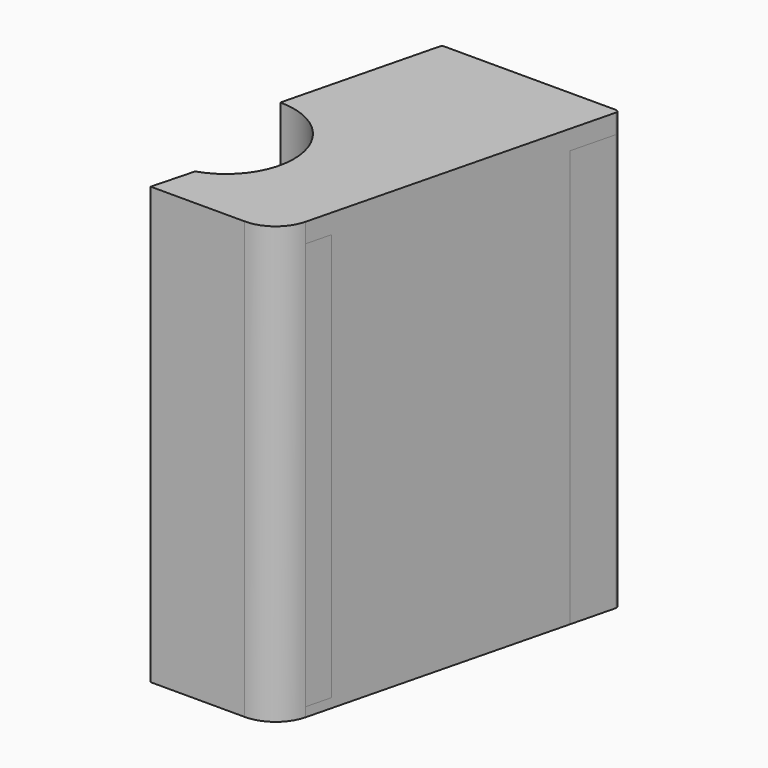
from build123d import *

# Parameters (mm, degrees)
F1_DEPTH  = 6.35
F2_DEPTH  = 133.35
F4_DEPTH  = 12.7
F6_DEPTH  = 12.7
F9_DEPTH  = 3.048
F10_DEPTH = 3.048


with BuildPart() as f1:
    # F0 (on Top) → F1 (new body)
    with BuildSketch(Plane.XY):
        with BuildLine():
            ThreePointArc((0, 22.225), (21.9553420771, 3.451605319), (6.8194533628, -21.152911876))
            Line((6.8194533628, -21.152911876), (3.2182324681, -34.8499524029))
            Line((3.2182324681, -34.8499524029), (16.4174194703, -34.8499524029))
            Line((16.4174194703, -34.8499524029), (33.9651857852, -34.8499524029))
            ThreePointArc((33.9651857852, -34.8499524029), (41.7335775109, -32.1969464806), (46.2563646294, -25.3463445283))
            Line((46.2563646294, -25.3463445283), (48.2839106629, -17.2361603944))
            Line((48.2839106629, -17.2361603944), (66.8572394912, 57.057154919))
            Line((66.8572394912, 57.057154919), (70.441746016, 71.3951810179))
            ThreePointArc((70.441746016, 71.3951810179), (70.2661403636, 72.2232722677), (69.5053644748, 72.5944764032))
            Line((69.5053644748, 72.5944764032), (66.6618312249, 72.5944764032))
            ThreePointArc((66.6618312249, 72.5944764032), (66.5001866147, 72.5275210134), (66.4332312249, 72.3658764032))
            Line((66.4332312249, 72.3658764032), (66.4332312249, 71.2990764032))
            ThreePointArc((66.4332312249, 71.2990764032), (66.3662758351, 71.137431793), (66.2046312249, 71.0704764032))
            Line((66.2046312249, 71.0704764032), (62.9969858988, 71.0704764032))
            Line((62.9969858988, 71.0704764032), (16.7480240974, 71.0704764032))
            ThreePointArc((16.7480240974, 71.0704764032), (16.5863794872, 71.137431793), (16.5194240974, 71.2990764032))
            Line((16.5194240974, 71.2990764032), (16.5194240974, 72.3658764032))
            ThreePointArc((16.5194240974, 72.3658764032), (16.4524687076, 72.5275210134), (16.2908240974, 72.5944764032))
            Line((16.2908240974, 72.5944764032), (13.3457788493, 72.5944764032))
            ThreePointArc((13.3457788493, 72.5944764032), (12.7517813684, 72.3900510299), (12.4093963134, 71.8633678095))
            Line((12.4093963134, 71.8633678095), (8.8236883425, 57.5202768957))
            Line((8.8236883425, 57.5202768957), (1.5766180268, 28.5314721071))
            Line((1.5766180268, 28.5314721071), (0, 22.225))
        make_face()
        with BuildLine():
            Line((8.4777404731, -29.8293234814), (9.8803254969, -24.4946704637))
            Line((9.8803254969, -24.4946704637), (10.5548516962, -21.9291481147))
            ThreePointArc((10.5548516962, -21.9291481147), (10.5992515812, -21.8420847409), (10.675842156, -21.78137836))
            ThreePointArc((10.675842156, -21.78137836), (24.0895462893, 2.8453134411), (5.3074870946, 23.6692338224))
            ThreePointArc((5.3074870946, 23.6692338224), (4.6971406745, 24.104398176), (4.5822935216, 24.845141653))
            Line((4.5822935216, 24.845141653), (5.0136417236, 26.570534461))
            Line((5.0136417236, 26.570534461), (5.2728629157, 27.6074192291))
            Line((5.2728629157, 27.6074192291), (11.7964822448, 53.7023678095))
            Line((11.7964822448, 53.7023678095), (15.3841674516, 68.0533678095))
            ThreePointArc((15.3841674516, 68.0533678095), (15.7265525066, 68.5800510299), (16.3205499875, 68.7844764032))
            Line((16.3205499875, 68.7844764032), (62.9969858988, 68.7844764032))
            Line((62.9969858988, 68.7844764032), (64.6255415732, 68.7844764032))
            ThreePointArc((64.6255415732, 68.7844764032), (65.3863161999, 68.4132738841), (65.5619241091, 67.5851849969))
            Line((65.5619241091, 67.5851849969), (61.9742379076, 53.2341810179))
            Line((61.9742379076, 53.2341810179), (44.5876677374, -16.312099663))
            Line((44.5876677374, -16.312099663), (42.5648720315, -24.4032824866))
            ThreePointArc((42.5648720315, -24.4032824866), (39.3965758263, -29.1878570785), (33.9651857852, -31.0399524029))
            Line((33.9651857852, -31.0399524029), (16.7253963249, -31.0399524029))
            Line((16.7253963249, -31.0399524029), (9.4112155314, -31.0399524029))
            ThreePointArc((9.4112155314, -31.0399524029), (8.6468533675, -30.6641262423), (8.4777404731, -29.8293234814))
        make_face(mode=Mode.SUBTRACT)
    extrude(amount=F1_DEPTH)

    # F0 (on Top) + F1_face (on face) → F2 (join)
    with BuildSketch(Plane.XY):
        with BuildLine():
            ThreePointArc((0, 22.225), (21.9553420771, 3.451605319), (6.8194533628, -21.152911876))
            Line((6.8194533628, -21.152911876), (3.2182324681, -34.8499524029))
            Line((3.2182324681, -34.8499524029), (16.4174194703, -34.8499524029))
            Line((16.4174194703, -34.8499524029), (33.9651857852, -34.8499524029))
            ThreePointArc((33.9651857852, -34.8499524029), (41.7335775109, -32.1969464806), (46.2563646294, -25.3463445283))
            Line((46.2563646294, -25.3463445283), (48.2839106629, -17.2361603944))
            Line((48.2839106629, -17.2361603944), (66.8572394912, 57.057154919))
            Line((66.8572394912, 57.057154919), (70.441746016, 71.3951810179))
            ThreePointArc((70.441746016, 71.3951810179), (70.2661403636, 72.2232722677), (69.5053644748, 72.5944764032))
            Line((69.5053644748, 72.5944764032), (66.6618312249, 72.5944764032))
            ThreePointArc((66.6618312249, 72.5944764032), (66.5001866147, 72.5275210134), (66.4332312249, 72.3658764032))
            Line((66.4332312249, 72.3658764032), (66.4332312249, 71.2990764032))
            ThreePointArc((66.4332312249, 71.2990764032), (66.3662758351, 71.137431793), (66.2046312249, 71.0704764032))
            Line((66.2046312249, 71.0704764032), (62.9969858988, 71.0704764032))
            Line((62.9969858988, 71.0704764032), (16.7480240974, 71.0704764032))
            ThreePointArc((16.7480240974, 71.0704764032), (16.5863794872, 71.137431793), (16.5194240974, 71.2990764032))
            Line((16.5194240974, 71.2990764032), (16.5194240974, 72.3658764032))
            ThreePointArc((16.5194240974, 72.3658764032), (16.4524687076, 72.5275210134), (16.2908240974, 72.5944764032))
            Line((16.2908240974, 72.5944764032), (13.3457788493, 72.5944764032))
            ThreePointArc((13.3457788493, 72.5944764032), (12.7517813684, 72.3900510299), (12.4093963134, 71.8633678095))
            Line((12.4093963134, 71.8633678095), (8.8236883425, 57.5202768957))
            Line((8.8236883425, 57.5202768957), (1.5766180268, 28.5314721071))
            Line((1.5766180268, 28.5314721071), (0, 22.225))
        make_face()
        with BuildLine():
            Line((8.4777404731, -29.8293234814), (9.8803254969, -24.4946704637))
            Line((9.8803254969, -24.4946704637), (10.5548516962, -21.9291481147))
            ThreePointArc((10.5548516962, -21.9291481147), (10.5992515812, -21.8420847409), (10.675842156, -21.78137836))
            ThreePointArc((10.675842156, -21.78137836), (24.0895462893, 2.8453134411), (5.3074870946, 23.6692338224))
            ThreePointArc((5.3074870946, 23.6692338224), (4.6971406745, 24.104398176), (4.5822935216, 24.845141653))
            Line((4.5822935216, 24.845141653), (5.0136417236, 26.570534461))
            Line((5.0136417236, 26.570534461), (5.2728629157, 27.6074192291))
            Line((5.2728629157, 27.6074192291), (11.7964822448, 53.7023678095))
            Line((11.7964822448, 53.7023678095), (15.3841674516, 68.0533678095))
            ThreePointArc((15.3841674516, 68.0533678095), (15.7265525066, 68.5800510299), (16.3205499875, 68.7844764032))
            Line((16.3205499875, 68.7844764032), (62.9969858988, 68.7844764032))
            Line((62.9969858988, 68.7844764032), (64.6255415732, 68.7844764032))
            ThreePointArc((64.6255415732, 68.7844764032), (65.3863161999, 68.4132738841), (65.5619241091, 67.5851849969))
            Line((65.5619241091, 67.5851849969), (61.9742379076, 53.2341810179))
            Line((61.9742379076, 53.2341810179), (44.5876677374, -16.312099663))
            Line((44.5876677374, -16.312099663), (42.5648720315, -24.4032824866))
            ThreePointArc((42.5648720315, -24.4032824866), (39.3965758263, -29.1878570785), (33.9651857852, -31.0399524029))
            Line((33.9651857852, -31.0399524029), (16.7253963249, -31.0399524029))
            Line((16.7253963249, -31.0399524029), (9.4112155314, -31.0399524029))
            ThreePointArc((9.4112155314, -31.0399524029), (8.6468533675, -30.6641262423), (8.4777404731, -29.8293234814))
        make_face(mode=Mode.SUBTRACT)
    with BuildSketch(Plane(origin=(33.8847935275, 19.8846997175, 6.35), x_dir=(1, 0, 0), z_dir=(0, 0, 1))):
        with BuildLine():
            Line((-32.3081755007, 8.6467723896), (-33.8847935275, 2.3403002825))
            ThreePointArc((-33.8847935275, 2.3403002825), (-11.9294514504, -16.4330943985), (-27.0653401647, -41.0376115934))
            Line((-27.0653401647, -41.0376115934), (-30.6665610594, -54.7346521204))
            Line((-30.6665610594, -54.7346521204), (0.0803922577, -54.7346521204))
            ThreePointArc((0.0803922577, -54.7346521204), (7.8487839834, -52.081646198), (12.3715711019, -45.2310442458))
            Line((12.3715711019, -45.2310442458), (36.5569524885, 51.5104813004))
            ThreePointArc((36.5569524885, 51.5104813004), (36.3813468361, 52.3385725502), (35.6205709473, 52.7097766857))
            Line((35.6205709473, 52.7097766857), (32.7770376974, 52.7097766857))
            ThreePointArc((32.7770376974, 52.7097766857), (32.6153930872, 52.6428212959), (32.5484376974, 52.4811766857))
            Line((32.5484376974, 52.4811766857), (32.5484376974, 51.4143766857))
            ThreePointArc((32.5484376974, 51.4143766857), (32.4814823076, 51.2527320756), (32.3198376974, 51.1857766857))
            Line((32.3198376974, 51.1857766857), (-17.1367694301, 51.1857766857))
            ThreePointArc((-17.1367694301, 51.1857766857), (-17.2984140403, 51.2527320756), (-17.3653694301, 51.4143766857))
            Line((-17.3653694301, 51.4143766857), (-17.3653694301, 52.4811766857))
            ThreePointArc((-17.3653694301, 52.4811766857), (-17.4323248199, 52.6428212959), (-17.5939694301, 52.7097766857))
            Line((-17.5939694301, 52.7097766857), (-20.5390146782, 52.7097766857))
            ThreePointArc((-20.5390146782, 52.7097766857), (-21.1330121591, 52.5053513125), (-21.475397214, 51.978668092))
            Line((-21.475397214, 51.978668092), (-32.3081755007, 8.6467723896))
        make_face()
        with BuildLine():
            Line((28.0894443801, 33.3494813004), (8.680078504, -44.287982204))
            ThreePointArc((8.680078504, -44.287982204), (5.5117822988, -49.0725567959), (0.0803922577, -50.9246521204))
            Line((0.0803922577, -50.9246521204), (-24.4735779961, -50.9246521204))
            ThreePointArc((-24.4735779961, -50.9246521204), (-25.2379401599, -50.5488259597), (-25.4070530544, -49.7140231989))
            Line((-25.4070530544, -49.7140231989), (-23.3299418313, -41.8138478322))
            ThreePointArc((-23.3299418313, -41.8138478322), (-23.2855419463, -41.7267844584), (-23.2089513715, -41.6660780774))
            ThreePointArc((-23.2089513715, -41.6660780774), (-9.7952472382, -17.0393862764), (-28.5773064329, 3.7845341049))
            ThreePointArc((-28.5773064329, 3.7845341049), (-29.187652853, 4.2196984585), (-29.3025000058, 4.9604419355))
            Line((-29.3025000058, 4.9604419355), (-28.6119306118, 7.7227195116))
            Line((-28.6119306118, 7.7227195116), (-18.5006260759, 48.168668092))
            ThreePointArc((-18.5006260759, 48.168668092), (-18.1582410209, 48.6953513125), (-17.56424354, 48.8997766857))
            Line((-17.56424354, 48.8997766857), (30.7407480457, 48.8997766857))
            ThreePointArc((30.7407480457, 48.8997766857), (31.5015226724, 48.5285741666), (31.6771305816, 47.7004852794))
            Line((31.6771305816, 47.7004852794), (28.0894443801, 33.3494813004))
        make_face(mode=Mode.SUBTRACT)
    extrude(amount=F2_DEPTH)

    # F3 (on face) → F4 (cut)
    with BuildSketch(Plane(origin=(11.580450504, -3.0447278186, 0), x_dir=(-0.2542777886, -0.9671312249, 0), z_dir=(-0.9671312249, 0.2542777886, 0))):
        with BuildLine():
            ThreePointArc((20.3111060532, 19.2999036496), (20.3843011375, 19.1231950843), (20.5610097027, 19.05))
            Line((20.5610097027, 19.05), (21.9662024036, 19.05))
            ThreePointArc((21.9662024036, 19.05), (22.1429109688, 19.1231950843), (22.2161060532, 19.2999036496))
            Line((22.2161060532, 19.2999036496), (22.2161060532, 28.3250963504))
            ThreePointArc((22.2161060532, 28.3250963504), (22.1429109688, 28.5018049157), (21.9662024036, 28.575))
            Line((21.9662024036, 28.575), (20.5651060532, 28.575))
            ThreePointArc((20.5651060532, 28.575), (20.3855009307, 28.5006051224), (20.3111060532, 28.321))
            Line((20.3111060532, 28.321), (20.3111060532, 19.2999036496))
        make_face()
        with BuildLine():
            Line((21.9662024036, 120.65), (20.5610097027, 120.65))
            ThreePointArc((20.5610097027, 120.65), (20.3843011375, 120.5768049157), (20.3111060532, 120.4000963504))
            Line((20.3111060532, 120.4000963504), (20.3111060532, 111.3749036496))
            ThreePointArc((20.3111060532, 111.3749036496), (20.3843011375, 111.1981950843), (20.5610097027, 111.125))
            Line((20.5610097027, 111.125), (21.9662024036, 111.125))
            ThreePointArc((21.9662024036, 111.125), (22.1429109688, 111.1981950843), (22.2161060532, 111.3749036496))
            Line((22.2161060532, 111.3749036496), (22.2161060532, 120.4000963504))
            ThreePointArc((22.2161060532, 120.4000963504), (22.1429109688, 120.5768049157), (21.9662024036, 120.65))
        make_face()
    extrude(amount=-F4_DEPTH, mode=Mode.SUBTRACT)

    # F5 (on face) → F6 (cut)
    with BuildSketch(Plane(origin=(-5.2294117647, 1.3073529412, 0), x_dir=(-0.242535625, -0.9701425001, 0), z_dir=(-0.9701425001, 0.242535625, 0))):
        with BuildLine():
            Line((-26.1569797214, 111.3749036496), (-26.1569797214, 120.4000963504))
            ThreePointArc((-26.1569797214, 120.4000963504), (-26.2301748057, 120.5768049157), (-26.4068833709, 120.65))
            Line((-26.4068833709, 120.65), (-27.8120760718, 120.65))
            ThreePointArc((-27.8120760718, 120.65), (-27.988784637, 120.5768049157), (-28.0619797214, 120.4000963504))
            Line((-28.0619797214, 120.4000963504), (-28.0619797214, 111.3749036496))
            ThreePointArc((-28.0619797214, 111.3749036496), (-27.988784637, 111.1981950843), (-27.8120760718, 111.125))
            Line((-27.8120760718, 111.125), (-26.4068833709, 111.125))
            ThreePointArc((-26.4068833709, 111.125), (-26.2301748057, 111.1981950843), (-26.1569797214, 111.3749036496))
        make_face()
        with BuildLine():
            ThreePointArc((-27.8120760718, 28.575), (-27.988784637, 28.5018049157), (-28.0619797214, 28.3250963504))
            Line((-28.0619797214, 28.3250963504), (-28.0619797214, 19.2999036496))
            ThreePointArc((-28.0619797214, 19.2999036496), (-27.988784637, 19.1231950843), (-27.8120760718, 19.05))
            Line((-27.8120760718, 19.05), (-26.4068833709, 19.05))
            ThreePointArc((-26.4068833709, 19.05), (-26.2301748057, 19.1231950843), (-26.1569797214, 19.2999036496))
            Line((-26.1569797214, 19.2999036496), (-26.1569797214, 28.3250963504))
            ThreePointArc((-26.1569797214, 28.3250963504), (-26.2301748057, 28.5018049157), (-26.4068833709, 28.575))
            Line((-26.4068833709, 28.575), (-27.8120760718, 28.575))
        make_face()
    extrude(amount=-F6_DEPTH, mode=Mode.SUBTRACT)

    # F8 (on face) → F9 (join)
    with BuildSketch(Plane.XY.offset(139.7)):
        with BuildLine():
            Line((46.2563646294, -25.3463445283), (66.8572394912, 57.057154919))
            Line((66.8572394912, 57.057154919), (70.441746016, 71.3951810179))
            ThreePointArc((70.441746016, 71.3951810179), (70.2661403636, 72.2232722677), (69.5053644748, 72.5944764032))
            Line((69.5053644748, 72.5944764032), (66.6618312249, 72.5944764032))
            ThreePointArc((66.6618312249, 72.5944764032), (66.5001866147, 72.5275210134), (66.4332312249, 72.3658764032))
            Line((66.4332312249, 72.3658764032), (66.4332312249, 71.2990764032))
            ThreePointArc((66.4332312249, 71.2990764032), (66.3662758351, 71.137431793), (66.2046312249, 71.0704764032))
            Line((66.2046312249, 71.0704764032), (16.7480240974, 71.0704764032))
            ThreePointArc((16.7480240974, 71.0704764032), (16.5863794872, 71.137431793), (16.5194240974, 71.2990764032))
            Line((16.5194240974, 71.2990764032), (16.5194240974, 72.3658764032))
            ThreePointArc((16.5194240974, 72.3658764032), (16.4524687076, 72.5275210134), (16.2908240974, 72.5944764032))
            Line((16.2908240974, 72.5944764032), (13.3457788493, 72.5944764032))
            ThreePointArc((13.3457788493, 72.5944764032), (12.7517813684, 72.3900510299), (12.4093963134, 71.8633678095))
            Line((12.4093963134, 71.8633678095), (8.8236883425, 57.5202768957))
            Line((8.8236883425, 57.5202768957), (1.5766180268, 28.5314721071))
            Line((1.5766180268, 28.5314721071), (0, 22.225))
            ThreePointArc((0, 22.225), (21.9553420771, 3.451605319), (6.8194533628, -21.152911876))
            Line((6.8194533628, -21.152911876), (3.2182324681, -34.8499524029))
            Line((3.2182324681, -34.8499524029), (33.9651857852, -34.8499524029))
            ThreePointArc((33.9651857852, -34.8499524029), (41.7335775109, -32.1969464806), (46.2563646294, -25.3463445283))
        make_face()
        with BuildLine():
            Line((65.5619241091, 67.5851849969), (61.9742379076, 53.2341810179))
            Line((61.9742379076, 53.2341810179), (42.5648720315, -24.4032824866))
            ThreePointArc((42.5648720315, -24.4032824866), (39.3965758263, -29.1878570785), (33.9651857852, -31.0399524029))
            Line((33.9651857852, -31.0399524029), (9.4112155314, -31.0399524029))
            ThreePointArc((9.4112155314, -31.0399524029), (8.6468533675, -30.6641262423), (8.4777404731, -29.8293234814))
            Line((8.4777404731, -29.8293234814), (10.5548516962, -21.9291481147))
            ThreePointArc((10.5548516962, -21.9291481147), (10.5992515812, -21.8420847409), (10.675842156, -21.78137836))
            ThreePointArc((10.675842156, -21.78137836), (24.0895462893, 2.8453134411), (5.3074870946, 23.6692338224))
            ThreePointArc((5.3074870946, 23.6692338224), (4.6971406745, 24.104398176), (4.5822935216, 24.845141653))
            Line((4.5822935216, 24.845141653), (5.2728629157, 27.6074192291))
            Line((5.2728629157, 27.6074192291), (15.3841674516, 68.0533678095))
            ThreePointArc((15.3841674516, 68.0533678095), (15.7265525066, 68.5800510299), (16.3205499875, 68.7844764032))
            Line((16.3205499875, 68.7844764032), (64.6255415732, 68.7844764032))
            ThreePointArc((64.6255415732, 68.7844764032), (65.3863161999, 68.4132738841), (65.5619241091, 67.5851849969))
        make_face(mode=Mode.SUBTRACT)
        with BuildLine():
            Line((46.2563646294, -25.3463445283), (66.8572394912, 57.057154919))
            Line((66.8572394912, 57.057154919), (70.441746016, 71.3951810179))
            ThreePointArc((70.441746016, 71.3951810179), (70.2661403636, 72.2232722677), (69.5053644748, 72.5944764032))
            Line((69.5053644748, 72.5944764032), (66.6618312249, 72.5944764032))
            ThreePointArc((66.6618312249, 72.5944764032), (66.5001866147, 72.5275210134), (66.4332312249, 72.3658764032))
            Line((66.4332312249, 72.3658764032), (66.4332312249, 71.2990764032))
            ThreePointArc((66.4332312249, 71.2990764032), (66.3662758351, 71.137431793), (66.2046312249, 71.0704764032))
            Line((66.2046312249, 71.0704764032), (16.7480240974, 71.0704764032))
            ThreePointArc((16.7480240974, 71.0704764032), (16.5863794872, 71.137431793), (16.5194240974, 71.2990764032))
            Line((16.5194240974, 71.2990764032), (16.5194240974, 72.3658764032))
            ThreePointArc((16.5194240974, 72.3658764032), (16.4524687076, 72.5275210134), (16.2908240974, 72.5944764032))
            Line((16.2908240974, 72.5944764032), (13.3457788493, 72.5944764032))
            ThreePointArc((13.3457788493, 72.5944764032), (12.7517813684, 72.3900510299), (12.4093963134, 71.8633678095))
            Line((12.4093963134, 71.8633678095), (8.8236883425, 57.5202768957))
            Line((8.8236883425, 57.5202768957), (1.5766180268, 28.5314721071))
            Line((1.5766180268, 28.5314721071), (0, 22.225))
            ThreePointArc((0, 22.225), (21.9553420771, 3.451605319), (6.8194533628, -21.152911876))
            Line((6.8194533628, -21.152911876), (3.2182324681, -34.8499524029))
            Line((3.2182324681, -34.8499524029), (33.9651857852, -34.8499524029))
            ThreePointArc((33.9651857852, -34.8499524029), (41.7335775109, -32.1969464806), (46.2563646294, -25.3463445283))
        make_face()
        with BuildLine():
            ThreePointArc((66.4332312249, 72.3658764032), (66.5001866147, 72.5275210134), (66.6618312249, 72.5944764032))
            Line((66.6618312249, 72.5944764032), (16.2908240974, 72.5944764032))
            ThreePointArc((16.2908240974, 72.5944764032), (16.4524687076, 72.5275210134), (16.5194240974, 72.3658764032))
            Line((16.5194240974, 72.3658764032), (16.5194240974, 71.2990764032))
            ThreePointArc((16.5194240974, 71.2990764032), (16.5863794872, 71.137431793), (16.7480240974, 71.0704764032))
            Line((16.7480240974, 71.0704764032), (66.2046312249, 71.0704764032))
            ThreePointArc((66.2046312249, 71.0704764032), (66.3662758351, 71.137431793), (66.4332312249, 71.2990764032))
            Line((66.4332312249, 71.2990764032), (66.4332312249, 72.3658764032))
        make_face()
    extrude(amount=-F9_DEPTH)

    # F7 (on Top) → F10 (join)
    with BuildSketch(Plane.XY):
        with BuildLine():
            Line((6.8194533628, -21.152911876), (3.2182324681, -34.8499524029))
            Line((3.2182324681, -34.8499524029), (33.9651857852, -34.8499524029))
            ThreePointArc((33.9651857852, -34.8499524029), (41.7335775109, -32.1969464806), (46.2563646294, -25.3463445283))
            Line((46.2563646294, -25.3463445283), (66.8572394912, 57.057154919))
            Line((66.8572394912, 57.057154919), (70.441746016, 71.3951810179))
            ThreePointArc((70.441746016, 71.3951810179), (70.2661403636, 72.2232722677), (69.5053644748, 72.5944764032))
            Line((69.5053644748, 72.5944764032), (66.6618312249, 72.5944764032))
            ThreePointArc((66.6618312249, 72.5944764032), (66.5001866147, 72.5275210134), (66.4332312249, 72.3658764032))
            Line((66.4332312249, 72.3658764032), (66.4332312249, 71.2990764032))
            ThreePointArc((66.4332312249, 71.2990764032), (66.3662758351, 71.137431793), (66.2046312249, 71.0704764032))
            Line((66.2046312249, 71.0704764032), (16.7480240974, 71.0704764032))
            ThreePointArc((16.7480240974, 71.0704764032), (16.5863794872, 71.137431793), (16.5194240974, 71.2990764032))
            Line((16.5194240974, 71.2990764032), (16.5194240974, 72.3658764032))
            ThreePointArc((16.5194240974, 72.3658764032), (16.4524687076, 72.5275210134), (16.2908240974, 72.5944764032))
            Line((16.2908240974, 72.5944764032), (13.3457788493, 72.5944764032))
            ThreePointArc((13.3457788493, 72.5944764032), (12.7517813684, 72.3900510299), (12.4093963134, 71.8633678095))
            Line((12.4093963134, 71.8633678095), (1.5766180268, 28.5314721071))
            Line((1.5766180268, 28.5314721071), (0, 22.225))
            ThreePointArc((0, 22.225), (21.9553420771, 3.451605319), (6.8194533628, -21.152911876))
        make_face()
        with BuildLine():
            ThreePointArc((66.4332312249, 72.3658764032), (66.5001866147, 72.5275210134), (66.6618312249, 72.5944764032))
            Line((66.6618312249, 72.5944764032), (16.2908240974, 72.5944764032))
            ThreePointArc((16.2908240974, 72.5944764032), (16.4524687076, 72.5275210134), (16.5194240974, 72.3658764032))
            Line((16.5194240974, 72.3658764032), (16.5194240974, 71.2990764032))
            ThreePointArc((16.5194240974, 71.2990764032), (16.5863794872, 71.137431793), (16.7480240974, 71.0704764032))
            Line((16.7480240974, 71.0704764032), (66.2046312249, 71.0704764032))
            ThreePointArc((66.2046312249, 71.0704764032), (66.3662758351, 71.137431793), (66.4332312249, 71.2990764032))
            Line((66.4332312249, 71.2990764032), (66.4332312249, 72.3658764032))
        make_face()
    extrude(amount=-F10_DEPTH)


solid = f1.part
